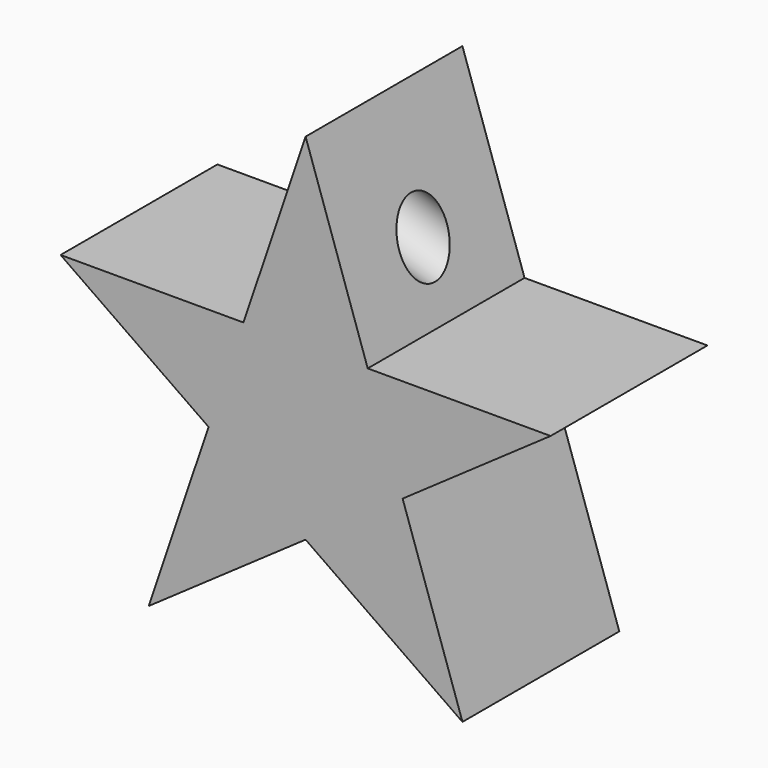
from build123d import *

# Parameters (mm, degrees)
F1_DEPTH = 15.24
F3_R     = 2.312647279
F4_DEPTH = 10.6426


with BuildPart() as f1:
    # F0 (on Front) → F1 (new body)
    with BuildSketch(Plane.XZ):
        Polygon((-7.3665321659, 21.7996356664), (-12.1971740292, 36.0948603779), (-17.0278158926, 21.7996356664), align=None)
        Polygon((-7.3665321659, 21.7996356664), (-17.0278158926, 21.7996356664), (-19.7405148125, 13.7719984015), (-12.1971740292, 8.5093759118), (-4.6538332459, 13.7719984015), align=None)
        Polygon((-19.7405148125, 13.7719984015), (-17.0278158926, 21.7996356664), (-31.2471740292, 21.7996356664), align=None)
        Polygon((6.8528259708, 21.7996356664), (-7.3665321659, 21.7996356664), (-4.6538332459, 13.7719984015), align=None)
        Polygon((-12.1971740292, 8.5093759118), (-19.7405148125, 13.7719984015), (-24.3943480584, 0), align=None)
        Polygon((0, 0), (-4.6538332459, 13.7719984015), (-12.1971740292, 8.5093759118), align=None)
    extrude(amount=F1_DEPTH)

    # F3 (on face) → F4 (cut)
    with BuildSketch(Plane(origin=(-21.8942461856, 0, 7.3985029494), x_dir=(0, -1, 0), z_dir=(-0.9473716635, 0, 0.3201358013))):
        with Locations((7.62, 22.7458197282)):
            Circle(F3_R)
    extrude(amount=-F4_DEPTH, mode=Mode.SUBTRACT)


solid = f1.part
